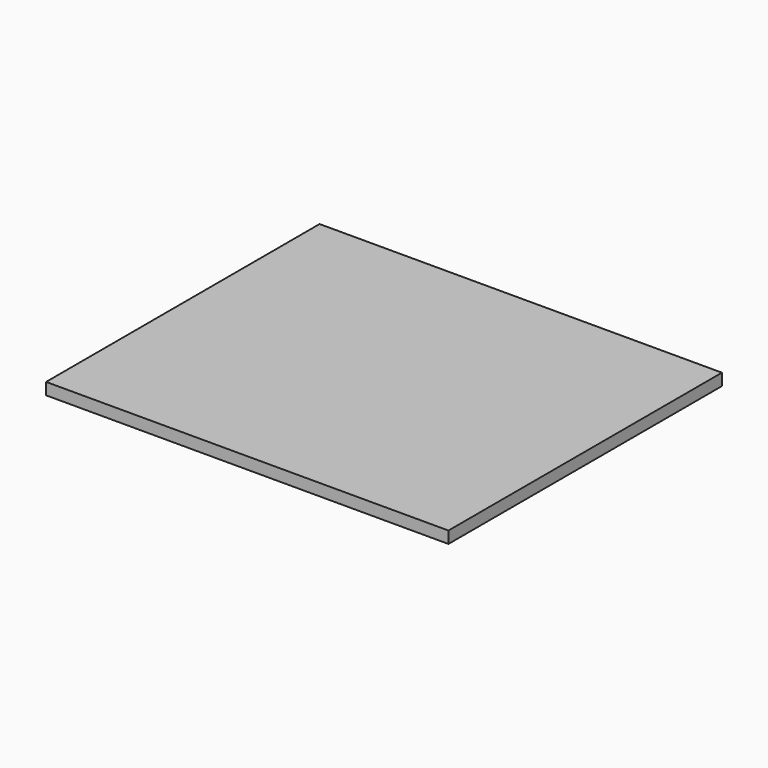
from build123d import *

# Parameters (mm, degrees)
REFINELINEAREXTRUDE_W = 260
REFINELINEAREXTRUDE_H = 306
LINEAREXTRUDE_DEPTH   = 9


with BuildPart() as part:
    # RefineLinearExtrude → LinearExtrude (new body)
    with BuildSketch(Plane(origin=(173, 0, 0), x_dir=(0, 1, 0), z_dir=(0, 0, 1))):
        Rectangle(REFINELINEAREXTRUDE_W, REFINELINEAREXTRUDE_H)
    extrude(amount=LINEAREXTRUDE_DEPTH)


solid = part.part
